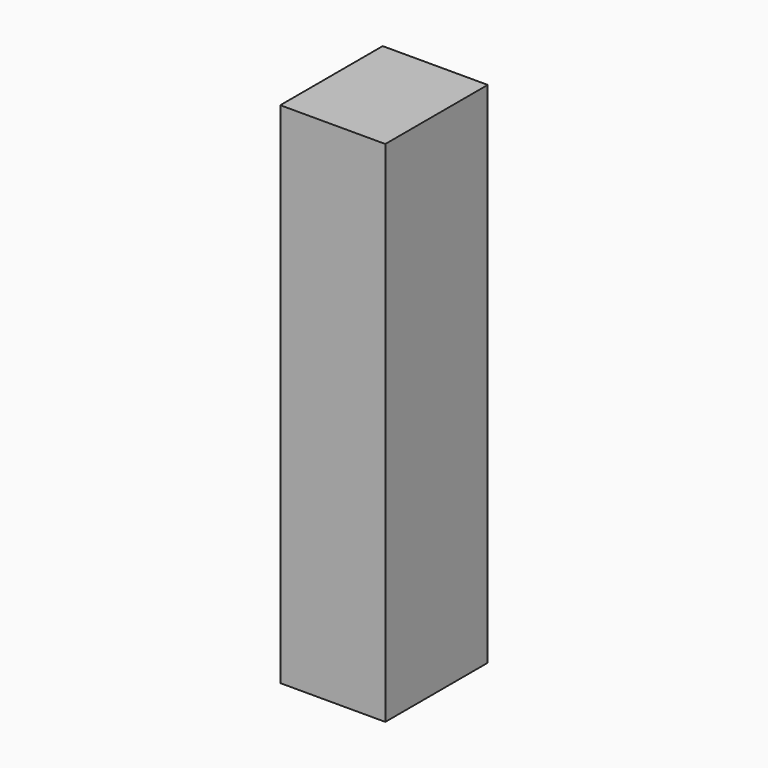
from build123d import *

# Parameters (mm, degrees)
F0_W     = 75.692
F0_H     = 39.37
F1_DEPTH = 4.953
F2_W     = 33.782
F2_H     = 9.906
F2_H_2   = 1.524
F2_W_2   = 4.064
F3_DEPTH = 76.2


with BuildPart() as f1:
    # F0 (on Front) → F1 (new body, symmetric)
    with BuildSketch(Plane.XZ):
        Rectangle(F0_W, F0_H)
    extrude(amount=F1_DEPTH, both=True)

    # F2 (on face) → F3 (cut)
    with BuildSketch(Plane.XY.offset(19.685)):
        Polygon((-37.846, 4.953), (-37.846, 6.477), (-39.402377, 6.477), (-39.402377, -19.75338), (-4.064, -19.75338), (-4.064, -4.953), (-37.846, -4.953), align=None)
        with Locations((20.955, 0)):
            Rectangle(F2_W, F2_H)
        Polygon((39.692778, 6.477), (37.846, 6.477), (37.846, 4.953), (37.846, -4.953), (4.064, -4.953), (4.064, -21.630768), (39.692778, -21.630768), align=None)
        with Locations((-20.955, 0)):
            Rectangle(F2_W, F2_H)
        with Locations((-20.955, 5.715)):
            Rectangle(F2_W, F2_H_2)
        with Locations((20.955, 5.715)):
            Rectangle(F2_W, F2_H_2)
        with Locations((2.032, 5.715)):
            Rectangle(F2_W_2, F2_H_2)
        with Locations((-2.032, 5.715)):
            Rectangle(F2_W_2, F2_H_2)
    extrude(amount=-F3_DEPTH, mode=Mode.SUBTRACT)


solid = f1.part
